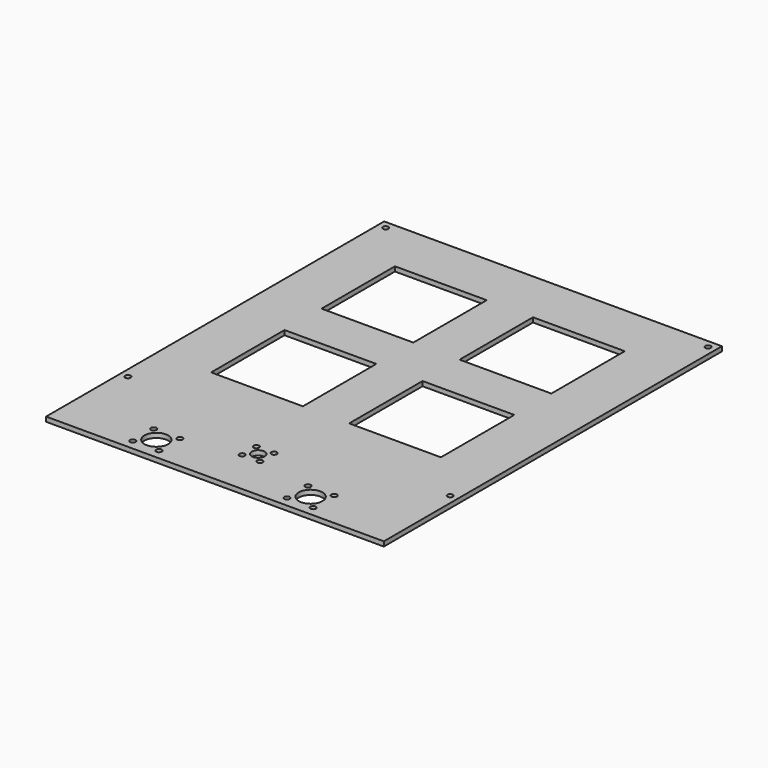
from build123d import *

# Parameters (mm, degrees)
SKETCH_W   = 219
SKETCH_H   = 274
SKETCH_R   = 1.8
SKETCH_R_2 = 4.2
SKETCH_R_3 = 7.7
SKETCH_W_2 = 59.5
SKETCH_H_2 = 59.5
PAD_DEPTH  = 3


with BuildPart() as part:
    # Sketch → Pad (new body)
    with BuildSketch(Plane.XY):
        with Locations((0, 137)):
            Rectangle(SKETCH_W, SKETCH_H)
        with Locations((-104.5, 60)):
            Circle(SKETCH_R, mode=Mode.SUBTRACT)
        with Locations((104.5, 60)):
            Circle(SKETCH_R, mode=Mode.SUBTRACT)
        with Locations((-104.5, 269)):
            Circle(SKETCH_R, mode=Mode.SUBTRACT)
        with Locations((104.5, 269)):
            Circle(SKETCH_R, mode=Mode.SUBTRACT)
        with Locations((0, 35)):
            Circle(SKETCH_R_2, mode=Mode.SUBTRACT)
        with Locations((5.75, 29.25)):
            Circle(SKETCH_R, mode=Mode.SUBTRACT)
        with Locations((5.75, 40.75)):
            Circle(SKETCH_R, mode=Mode.SUBTRACT)
        with Locations((-5.75, 29.25)):
            Circle(SKETCH_R, mode=Mode.SUBTRACT)
        with Locations((-5.75, 40.75)):
            Circle(SKETCH_R, mode=Mode.SUBTRACT)
        with Locations((-58.485281, 23.485281)):
            Circle(SKETCH_R, mode=Mode.SUBTRACT)
        with Locations((-41.514719, 23.485281)):
            Circle(SKETCH_R, mode=Mode.SUBTRACT)
        with Locations((-41.514719, 6.514719)):
            Circle(SKETCH_R, mode=Mode.SUBTRACT)
        with Locations((-58.485281, 6.514719)):
            Circle(SKETCH_R, mode=Mode.SUBTRACT)
        with Locations((-50, 15)):
            Circle(SKETCH_R_3, mode=Mode.SUBTRACT)
        with Locations((41.514719, 23.485281)):
            Circle(SKETCH_R, mode=Mode.SUBTRACT)
        with Locations((58.485281, 23.485281)):
            Circle(SKETCH_R, mode=Mode.SUBTRACT)
        with Locations((58.485281, 6.514719)):
            Circle(SKETCH_R, mode=Mode.SUBTRACT)
        with Locations((41.514719, 6.514719)):
            Circle(SKETCH_R, mode=Mode.SUBTRACT)
        with Locations((50, 15)):
            Circle(SKETCH_R_3, mode=Mode.SUBTRACT)
        with Locations((-44.75, 209.25)):
            Rectangle(SKETCH_W_2, SKETCH_H_2, mode=Mode.SUBTRACT)
        with Locations((44.75, 209.25)):
            Rectangle(SKETCH_W_2, SKETCH_H_2, mode=Mode.SUBTRACT)
        with Locations((44.75, 119.75)):
            Rectangle(SKETCH_W_2, SKETCH_H_2, mode=Mode.SUBTRACT)
        with Locations((-44.75, 119.75)):
            Rectangle(SKETCH_W_2, SKETCH_H_2, mode=Mode.SUBTRACT)
    extrude(amount=PAD_DEPTH)


solid = part.part
